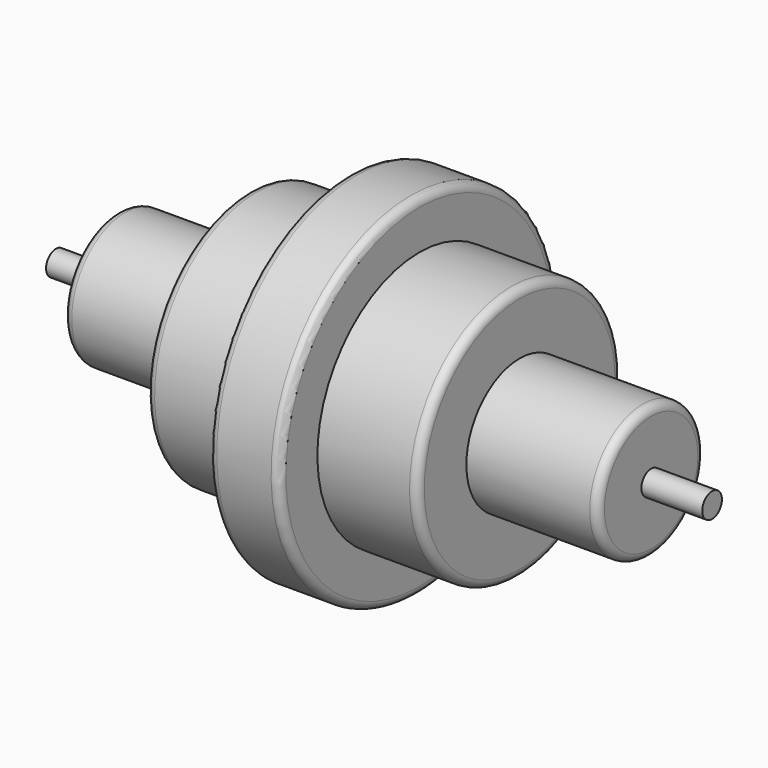
from build123d import *

# Parameters (mm, degrees)
F0_R     = 3.81
F1_DEPTH = 101.6
F4_R     = 2.54


with BuildPart() as f1:
    # F0 (on Right) → F1 (new body, symmetric)
    with BuildSketch(Plane.YZ):
        Circle(F0_R)
    extrude(amount=F1_DEPTH, both=True)

    # F2 (on Front) → F3 (revolve)
    with BuildSketch(Plane.XZ):
        Polygon((-82.736909, 20.620583), (-82.736909, 0), (82.736909, 0), (82.736909, 20.620583), (42.004891, 20.620583), (42.004891, 39.459139), (10.946727, 39.459139), (10.946727, 54.224499), (0, 54.224499), (-10.946727, 54.224499), (-10.946727, 39.459139), (-42.004891, 39.459139), (-42.004891, 20.620583), align=None)
    revolve(axis=Axis((0, 0, 0), (1, 0, 0)))

    # F4
    f4_edges = [f1.edges().sort_by_distance(p)[0] for p in [
        (-10.946727, 0, -54.224499),
        (-42.004891, 0, -39.459139),
        (-82.736909, 0, -20.620583),
        (10.946727, 0, -54.224499),
        (42.004891, 0, -39.459139),
        (82.736909, 0, -20.620583),
    ]]
    fillet(f4_edges, radius=F4_R)


solid = f1.part
